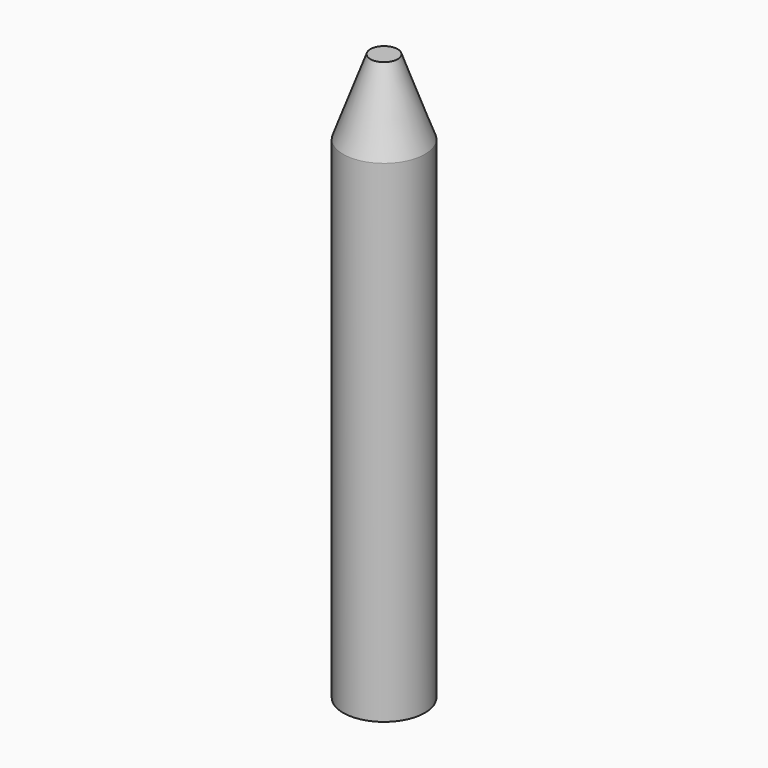
from build123d import *

# Parameters (mm, degrees)
F0_R     = 7.5
F1_DEPTH = 104
F2_SIZE2 = 13.7373870973
F2_SIZE  = 5


with BuildPart() as f1:
    # F0 (on Top) → F1 (new body)
    with BuildSketch(Plane.XY):
        with Locations((0, 12.9899320581)):
            Circle(F0_R)
    extrude(amount=F1_DEPTH)

    # F2
    f2_edges = [f1.edges().sort_by_distance(p)[0] for p in [
        (-7.5, 12.989932, 104),
    ]]
    f2_side = f1.faces().sort_by_distance((0, 12.989932, 104))[0]
    chamfer(f2_edges, length=F2_SIZE, length2=F2_SIZE2, reference=f2_side)


solid = f1.part
